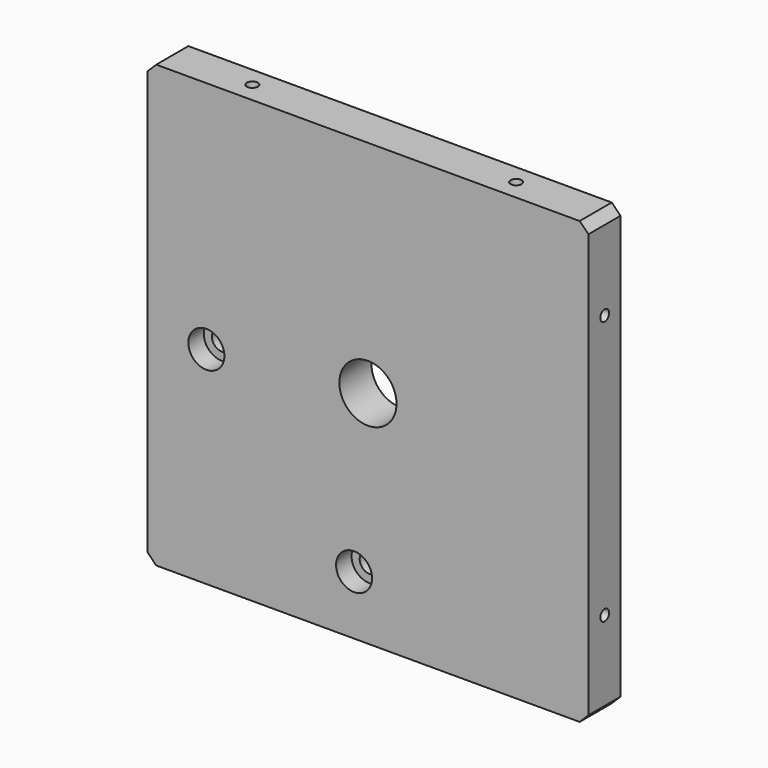
from build123d import *

# Parameters (mm, degrees)
F0_W            = 100.3
F0_H            = 100.3
F1_DEPTH        = 9.13
F2_SIZE         = 2
F4_D            = 4.5
F4_CBORE_D      = 8.2
F4_CBORE_DEPTH  = 4.4
F5_D            = 13
F10_D           = 2.5
F10_DEPTH       = 5.5
F10_TIP         = 0.7510757738
F10_ON_F7_D     = 2.5
F10_ON_F7_DEPTH = 5.5
F10_ON_F7_TIP   = 0.7510757738
F10_ON_F6_D     = 2.5
F10_ON_F6_DEPTH = 5.5
F10_ON_F6_TIP   = 0.7510757738
F10_ON_F9_D     = 2.5
F10_ON_F9_DEPTH = 5.5
F10_ON_F9_TIP   = 0.7510757738


with BuildPart() as f1:
    # F0 (on Front) → F1 (new body)
    with BuildSketch(Plane.XZ):
        Rectangle(F0_W, F0_H)
    extrude(amount=F1_DEPTH)

    # F2
    f2_edges = [f1.edges().sort_by_distance(p)[0] for p in [
        (-50.15, -4.565, -50.15),
        (50.15, -4.565, -50.15),
        (50.15, -4.565, 50.15),
        (-50.15, -4.565, 50.15),
    ]]
    chamfer(f2_edges, length=F2_SIZE)

    # F4 (through all)
    with Locations(Plane.XZ.offset(9.13)):
        with Locations((-36.75, -3.15), (-3.15, -36.75)):
            CounterBoreHole(F4_D / 2, F4_CBORE_D / 2, F4_CBORE_DEPTH)

    # F5 (through all)
    with Locations(Plane.XZ.offset(9.13)):
        with Locations((0, 0)):
            Hole(F5_D / 2)

    # F10
    with Locations(Plane(origin=(-50.15, 0, 0), x_dir=(0, -1, 0), z_dir=(-1, 0, 0))):
        with Locations((4.5, -30), (4.5, 30)):
            Hole(F10_D / 2, depth=F10_DEPTH)
            with Locations((0, 0, -(F10_DEPTH + F10_TIP / 2))):  # 118° drill point
                Cone(0, F10_D / 2, F10_TIP, mode=Mode.SUBTRACT)

    # F10 on F7
    with Locations(Plane.XY.offset(50.15)):
        with Locations((-30, -4.5), (30, -4.5)):
            Hole(F10_ON_F7_D / 2, depth=F10_ON_F7_DEPTH)
            with Locations((0, 0, -(F10_ON_F7_DEPTH + F10_ON_F7_TIP / 2))):  # 118° drill point
                Cone(0, F10_ON_F7_D / 2, F10_ON_F7_TIP, mode=Mode.SUBTRACT)

    # F10 on F6
    with Locations(Plane.YZ.offset(50.15)):
        with Locations((-4.5, -30), (-4.5, 30)):
            Hole(F10_ON_F6_D / 2, depth=F10_ON_F6_DEPTH)
            with Locations((0, 0, -(F10_ON_F6_DEPTH + F10_ON_F6_TIP / 2))):  # 118° drill point
                Cone(0, F10_ON_F6_D / 2, F10_ON_F6_TIP, mode=Mode.SUBTRACT)

    # F10 on F9
    with Locations(Plane(origin=(0, 0, -50.15), x_dir=(1, 0, 0), z_dir=(0, 0, -1))):
        with Locations((30, 4.5), (-30, 4.5)):
            Hole(F10_ON_F9_D / 2, depth=F10_ON_F9_DEPTH)
            with Locations((0, 0, -(F10_ON_F9_DEPTH + F10_ON_F9_TIP / 2))):  # 118° drill point
                Cone(0, F10_ON_F9_D / 2, F10_ON_F9_TIP, mode=Mode.SUBTRACT)


solid = f1.part
